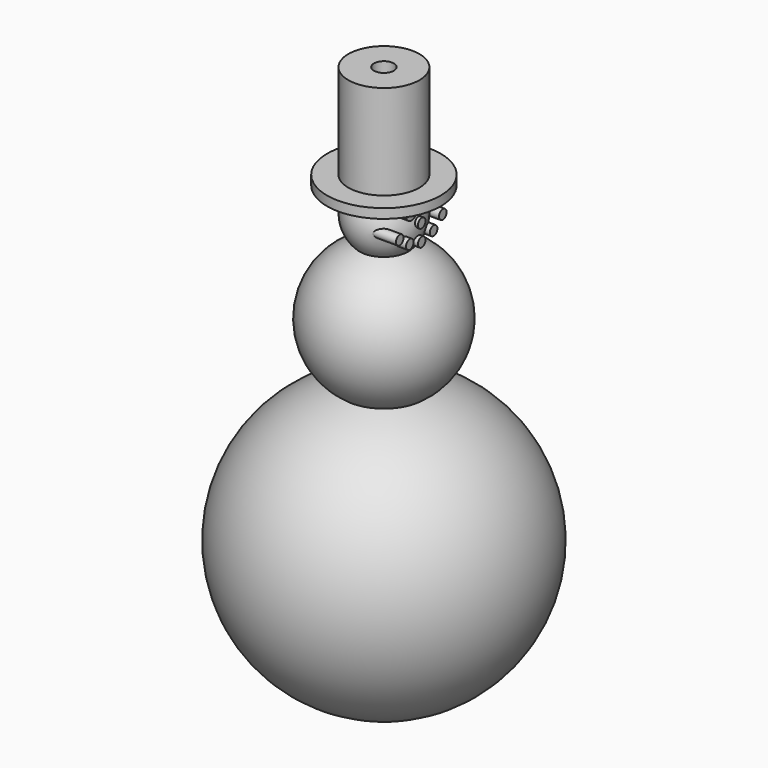
from build123d import *

# Parameters (mm, degrees)
F3_R     = 1.27
F4_DEPTH = 10.16
F6_R     = 15.24
F7_DEPTH = 2.54
F8_R     = 9.525
F8_R_2   = 2.6694227638
F9_DEPTH = 25.4


with BuildPart() as f1:
    # F0 (on Front) → F1 (revolve)
    with BuildSketch(Plane.XZ):
        with BuildLine():
            Line((0, 33.3398456074), (0, 38.1))
            ThreePointArc((0, 38.1), (-5.3715700607, 37.719441076), (-10.6358330914, 36.585366671))
            ThreePointArc((-10.6358330914, 36.585366671), (-5.5599989326, 34.1692827218), (0, 33.3398456074))
        make_face()
        with BuildLine():
            ThreePointArc((-10.6358330914, 36.585366671), (-5.3715700607, 37.719441076), (0, 38.1))
            Line((0, 38.1), (0, 67.6917069877))
            ThreePointArc((0, 67.6917069877), (-3.5141843979, 68.3636773923), (-6.5325309142, 70.2847761705))
            ThreePointArc((-6.5325309142, 70.2847761705), (-18.9103339688, 54.6924027056), (-10.6358330914, 36.585366671))
        make_face()
        with BuildLine():
            ThreePointArc((0, 33.3398456074), (-5.5599989326, 34.1692827218), (-10.6358330914, 36.585366671))
            ThreePointArc((-10.6358330914, 36.585366671), (-37.719441076, -5.3715700607), (0, -38.1))
            Line((0, -38.1), (0, 33.3398456074))
        make_face()
        with BuildLine():
            ThreePointArc((-6.5325309142, 70.2847761705), (-3.5141843979, 68.3636773923), (0, 67.6917069877))
            Line((0, 67.6917069877), (0, 71.4398456074))
            ThreePointArc((0, 71.4398456074), (-3.3169317731, 71.1488558055), (-6.5325309142, 70.2847761705))
        make_face()
        with BuildLine():
            ThreePointArc((0, 86.7417069877), (-8.8530295954, 80.7308913857), (-6.5325309142, 70.2847761705))
            ThreePointArc((-6.5325309142, 70.2847761705), (-3.3169317731, 71.1488558055), (0, 71.4398456074))
            Line((0, 71.4398456074), (0, 86.7417069877))
        make_face()
    revolve(axis=Axis((0, 0, 28.575), (0, 0, -1)))

    # F3 (on offset) → F4 (join)
    with BuildSketch(Plane.YZ):
        with BuildLine():
            ThreePointArc((1.27, 73.7371481955), (0.8980256121, 74.6351738076), (0, 75.0071481955))
            Line((0, 75.0071481955), (0, 72.4671481955))
            ThreePointArc((0, 72.4671481955), (0.8980256121, 72.8391225834), (1.27, 73.7371481955))
        make_face()
        with BuildLine():
            Line((0, 72.4671481955), (0, 75.0071481955))
            ThreePointArc((0, 75.0071481955), (-1.27, 73.7371481955), (0, 72.4671481955))
        make_face()
        with BuildLine():
            ThreePointArc((1.27, 78.1989917159), (0.8980256121, 79.097017328), (0, 79.4689917159))
            Line((0, 79.4689917159), (0, 76.9289917159))
            ThreePointArc((0, 76.9289917159), (0.8980256121, 77.3009661038), (1.27, 78.1989917159))
        make_face()
        with BuildLine():
            Line((0, 76.9289917159), (0, 79.4689917159))
            ThreePointArc((0, 79.4689917159), (-1.27, 78.1989917159), (0, 76.9289917159))
        make_face()
        with BuildLine():
            ThreePointArc((-5.3214693207, 82.12595433), (-3.4164693207, 80.22095433), (-1.5114693207, 82.12595433))
            Line((-1.5114693207, 82.12595433), (-5.3214693207, 82.12595433))
        make_face()
        with BuildLine():
            Line((-5.3214693207, 82.12595433), (-1.5114693207, 82.12595433))
            ThreePointArc((-1.5114693207, 82.12595433), (-3.4164693207, 84.03095433), (-5.3214693207, 82.12595433))
        make_face()
        with BuildLine():
            ThreePointArc((5.4735306793, 82.12595433), (3.5685306793, 84.03095433), (1.6635306793, 82.12595433))
            Line((1.6635306793, 82.12595433), (5.4735306793, 82.12595433))
        make_face()
        with BuildLine():
            Line((5.4735306793, 82.12595433), (1.6635306793, 82.12595433))
            ThreePointArc((1.6635306793, 82.12595433), (3.5685306793, 80.22095433), (5.4735306793, 82.12595433))
        make_face()
        with Locations((-7.385127712, 77.2191482013)):
            Circle(F3_R)
        with Locations((-4.0002781898, 74.8141407967)):
            Circle(F3_R)
        with Locations((7.0602684917, 77.3848402455)):
            Circle(F3_R)
        with Locations((3.981257522, 74.8031953548)):
            Circle(F3_R)
    extrude(amount=F4_DEPTH)

    # F6 (on offset) → F7 (join)
    with BuildSketch(Plane.XY.offset(83.82)):
        Circle(F6_R)
    extrude(amount=F7_DEPTH)

    # F8 (on face) → F9 (join)
    with BuildSketch(Plane.XY.offset(86.36)):
        Circle(F8_R)
        Circle(F8_R_2, mode=Mode.SUBTRACT)
    extrude(amount=F9_DEPTH)


solid = f1.part
